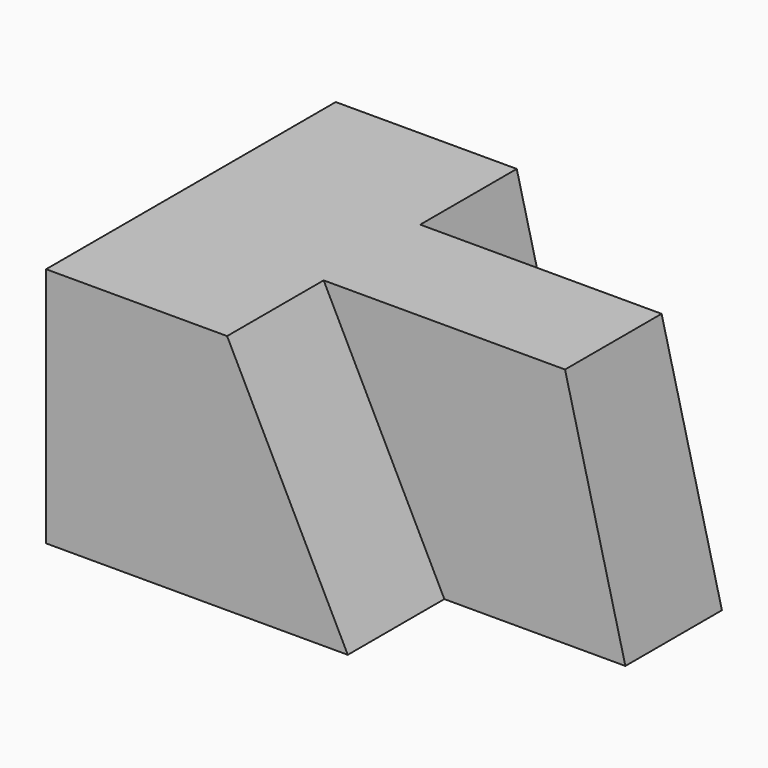
from build123d import *

# Parameters (mm, degrees)
F0_W     = 50.8
F0_H     = 25.4
F1_DEPTH = 38.1
F3_DEPTH = 12.7
F5_DEPTH = 25.4
F7_DEPTH = 12.7


with BuildPart() as f1:
    # F0 (on Front) → F1 (new body)
    with BuildSketch(Plane.XZ):
        with Locations((25.4, 12.7)):
            Rectangle(F0_W, F0_H)
    extrude(amount=F1_DEPTH)

    # F2 (on face) → F3 (cut)
    with BuildSketch(Plane.XZ.offset(38.1)):
        Polygon((19.05, 25.4), (31.75, 0), (50.8, 0), (50.8, 25.4), align=None)
    extrude(amount=-F3_DEPTH, mode=Mode.SUBTRACT)

    # F4 (on face) → F5 (cut)
    with BuildSketch(Plane.XZ.offset(25.4)):
        Polygon((50.8, 25.4), (44.45, 25.4), (50.8, 0), align=None)
    extrude(amount=-F5_DEPTH, mode=Mode.SUBTRACT)

    # F6 (on face) → F7 (cut)
    with BuildSketch(Plane(origin=(0, 0, 0), x_dir=(-1, 0, 0), z_dir=(0, 1, 0))):
        Polygon((-50.8, 0), (-25.4, 0), (-19.05, 25.4), (-44.45, 25.4), align=None)
    extrude(amount=-F7_DEPTH, mode=Mode.SUBTRACT)


solid = f1.part
